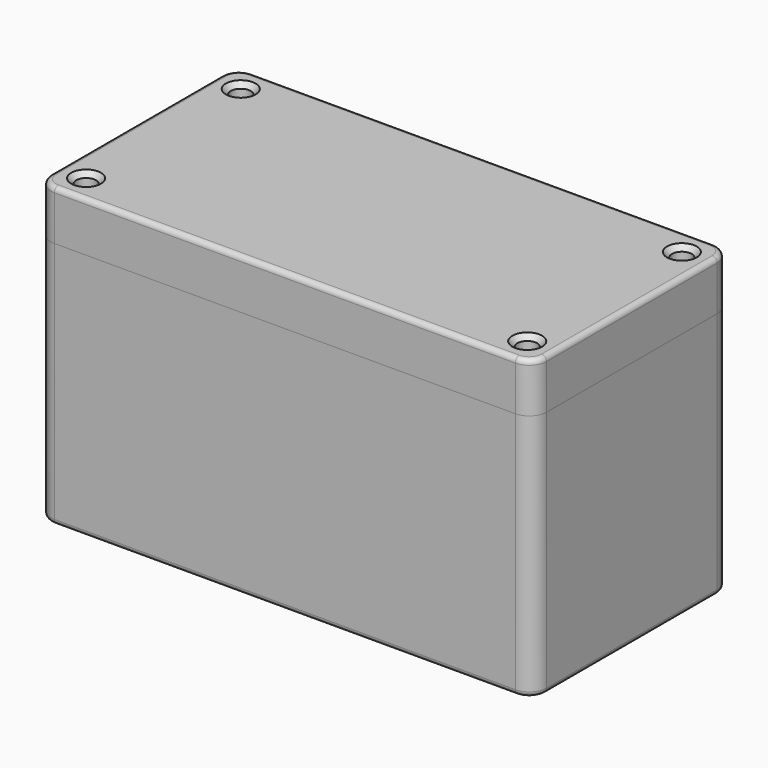
from build123d import *

# Parameters (mm, degrees)
PAD_DEPTH                     = 100
POCKET_DEPTH                  = 95.001
SKETCH002_R                   = 3
PAD001_DEPTH                  = 90
SKETCH002_MIRRORED_2_R        = 3
PAD001_MIRRORED_2_DEPTH       = 90
FILLET_R                      = 2
PAD002_DEPTH                  = 20
PAD003_DEPTH                  = 4.6
SKETCH005_R                   = 4
POCKET001_DEPTH               = 564.912814
SKETCH005_MIRRORED002_2_R     = 4
POCKET001_MIRRORED002_2_DEPTH = 564.912814
CHAMFER_SIZE                  = 2
FILLET001_R                   = 2
POCKET002_DEPTH               = 20
FILLET002_R                   = 5


with BuildPart() as body:
    # Sketch → Pad (new body)
    with BuildSketch(Plane.XY.offset(-5)):
        with BuildLine():
            Line((100, -43), (100, 43))
            ThreePointArc((100, 43), (97.949747, 47.949747), (93, 50))
            Line((93, 50), (-93, 50))
            ThreePointArc((-93, 50), (-97.949747, 47.949747), (-100, 43))
            Line((-100, 43), (-100, -43))
            ThreePointArc((-100, -43), (-97.949747, -47.949747), (-93, -50))
            Line((-93, -50), (93, -50))
            ThreePointArc((93, -50), (97.949747, -47.949747), (100, -43))
        make_face()
    extrude(amount=PAD_DEPTH)

    # Sketch001 → Pocket (cut, through all)
    with BuildSketch(Plane.XY):
        with BuildLine():
            Line((95, -43), (95, 43))
            ThreePointArc((95, 43), (94.414214, 44.414214), (93, 45))
            Line((93, 45), (-93, 45))
            ThreePointArc((-93, 45), (-94.414214, 44.414214), (-95, 43))
            Line((-95, 43), (-95, -43))
            ThreePointArc((-95, -43), (-94.414214, -44.414214), (-93, -45))
            Line((-93, -45), (93, -45))
            ThreePointArc((93, -45), (94.414214, -44.414214), (95, -43))
        make_face()
    extrude(amount=POCKET_DEPTH, mode=Mode.SUBTRACT)

    # Sketch002 → Pad001 (join)
    with BuildSketch(Plane.XY):
        with BuildLine():
            Line((-95, 45), (-80, 45))
            ThreePointArc((-95, 30), (-84.393398, 34.393398), (-80, 45))
            Line((-95, 45), (-95, 30))
        make_face()
        with Locations((-89, 39)):
            Circle(SKETCH002_R, mode=Mode.SUBTRACT)
    pad001 = extrude(amount=PAD001_DEPTH)

    # Sketch002 Mirrored 2 → Pad001 Mirrored 2 (add)
    with BuildSketch(Plane(origin=(0, 0, 0), x_dir=(-1, 0, 0), z_dir=(0, 0, -1))):
        with BuildLine():
            Line((-95, 45), (-80, 45))
            ThreePointArc((-95, 30), (-84.393398, 34.393398), (-80, 45))
            Line((-95, 45), (-95, 30))
        make_face()
        with Locations((-89, 39)):
            Circle(SKETCH002_MIRRORED_2_R, mode=Mode.SUBTRACT)
    pad001_mirrored_2 = extrude(amount=-PAD001_MIRRORED_2_DEPTH)

    # Mirrored001: Pad001, Pad001 Mirrored 2 across Sketch002 H_Axis
    add(pad001.mirror(Plane.ZX))
    add(pad001_mirrored_2.mirror(Plane.ZX))

    # Fillet
    fillet_edges = [body.edges().sort_by_distance(p)[0] for p in [
        (0, -50, -5),
    ]]
    fillet(fillet_edges, radius=FILLET_R)


with BuildPart() as body001:
    # Sketch003 → Pad002 (new body)
    with BuildSketch(Plane.XY.offset(95)):
        with BuildLine():
            Line((100, -43), (100, 43))
            ThreePointArc((100, 43), (97.949747, 47.949747), (93, 50))
            Line((93, 50), (-93, 50))
            ThreePointArc((-93, 50), (-97.949747, 47.949747), (-100, 43))
            Line((-100, 43), (-100, -43))
            ThreePointArc((-100, -43), (-97.949747, -47.949747), (-93, -50))
            Line((-93, -50), (93, -50))
            ThreePointArc((93, -50), (97.949747, -47.949747), (100, -43))
        make_face()
    extrude(amount=PAD002_DEPTH)

    # Sketch004 → Pad003 (join)
    with BuildSketch(Plane.XY.offset(95)):
        with BuildLine():
            Line((94.6, -42.6), (94.6, 42.6))
            ThreePointArc((94.6, 42.6), (94.014214, 44.014214), (92.6, 44.6))
            Line((92.6, 44.6), (-92.6, 44.6))
            ThreePointArc((-92.6, 44.6), (-94.014214, 44.014214), (-94.6, 42.6))
            Line((-94.6, 42.6), (-94.6, -42.6))
            ThreePointArc((-94.6, -42.6), (-94.014214, -44.014214), (-92.6, -44.6))
            Line((-92.6, -44.6), (92.6, -44.6))
            ThreePointArc((92.6, -44.6), (94.014214, -44.014214), (94.6, -42.6))
        make_face()
    extrude(amount=-PAD003_DEPTH)

    # Sketch005 → Pocket001 (cut, through all)
    with BuildSketch(Plane.XY):
        with Locations((-89, 39)):
            Circle(SKETCH005_R)
    pocket001 = extrude(amount=POCKET001_DEPTH, mode=Mode.SUBTRACT)

    # Sketch005 Mirrored002 2 → Pocket001 Mirrored002 2 (cut, through all)
    with BuildSketch(Plane(origin=(0, 0, 0), x_dir=(1, 0, 0), z_dir=(0, 0, -1))):
        with Locations((-89, 39)):
            Circle(SKETCH005_MIRRORED002_2_R)
    pocket001_mirrored002_2 = extrude(amount=-POCKET001_MIRRORED002_2_DEPTH, mode=Mode.SUBTRACT)

    # Mirrored003: Pocket001, Pocket001 Mirrored002 2 across YZ
    add(pocket001.mirror(Plane.YZ), mode=Mode.SUBTRACT)
    add(pocket001_mirrored002_2.mirror(Plane.YZ), mode=Mode.SUBTRACT)

    # Chamfer
    chamfer_edges = [body001.edges().sort_by_distance(p)[0] for p in [
        (93, 39, 115),
        (-93, 39, 115),
        (-93, -39, 115),
        (93, -39, 115),
    ]]
    chamfer(chamfer_edges, length=CHAMFER_SIZE)

    # Fillet001
    fillet001_edges = [body001.edges().sort_by_distance(p)[0] for p in [
        (0, -50, 115),
    ]]
    fillet(fillet001_edges, radius=FILLET001_R)

    # Sketch006 (on Face27 of Fillet001) → Pocket002 (cut)
    with BuildSketch(Plane(origin=(0, 0, 90.4), x_dir=(1, 0, 0), z_dir=(0, 0, -1))):
        Polygon((90, -30), (90, 30), (80, 30), (80, 40), (-80, 40), (-80, 30), (-90, 30), (-90, -30), (-80, -30), (-80, -40), (80, -40), (80, -30), align=None)
    extrude(amount=-POCKET002_DEPTH, mode=Mode.SUBTRACT)

    # Fillet002
    fillet002_edges = [body001.edges().sort_by_distance(p)[0] for p in [
        (-80, -30, 100.4),
        (80, -30, 100.4),
        (-80, 30, 100.4),
        (80, 30, 100.4),
    ]]
    fillet(fillet002_edges, radius=FILLET002_R)


solid = Compound([body.part, body001.part])
